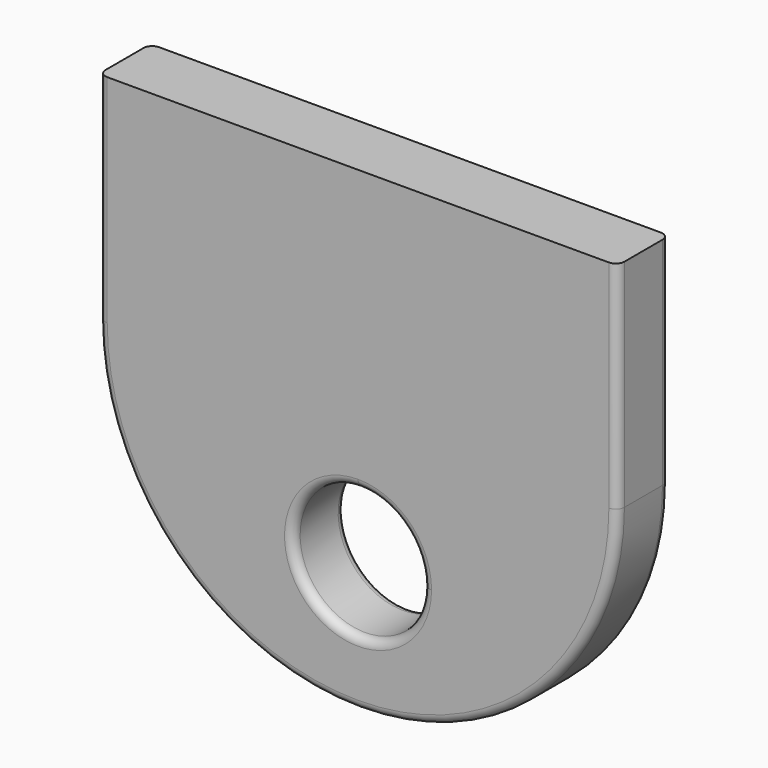
from build123d import *

# Parameters (mm, degrees)
F1_DEPTH = 9.525
F2_R     = 1.27


with BuildPart() as f1:
    # F0 (on Front) → F1 (new body)
    with BuildSketch(Plane.XZ):
        Polygon((-38.1, 31.75), (-38.1, 0), (0, 0), (38.1, 0), (38.1, 31.75), align=None)
        with BuildLine():
            Line((0, 0), (-38.1, 0))
            ThreePointArc((-38.1, 0), (0, -38.1), (38.1, 0))
            Line((38.1, 0), (0, 0))
        make_face()
        with BuildLine():
            ThreePointArc((9.525, -19.05), (-6.735192, -25.785192), (0, -9.525))
            ThreePointArc((0, -9.525), (6.735192, -12.314808), (9.525, -19.05))
        make_face(mode=Mode.SUBTRACT)
    extrude(amount=F1_DEPTH)

    # F2
    f2_edges = [f1.edges().sort_by_distance(p)[0] for p in [
        (-38.1, -9.525, 15.875),
        (38.1, 0, 15.875),
        (0, -9.525, -28.575),
        (0, 0, -28.575),
    ]]
    fillet(f2_edges, radius=F2_R)


solid = f1.part
